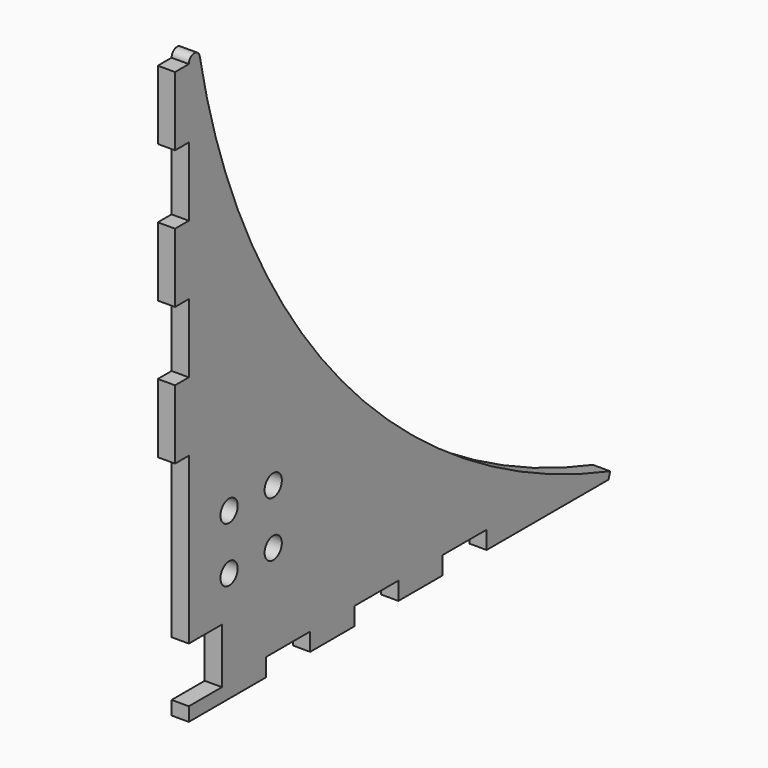
from build123d import *

# Parameters (mm, degrees)
F0_W     = 3.175
F0_H     = 12.7
F0_R     = 1.984375
F1_DEPTH = 3.175


with BuildPart() as f1:
    # F0 (on Right) → F1 (new body)
    with BuildSketch(Plane.YZ):
        with Locations((-52.966131, 31.75)):
            Rectangle(F0_W, F0_H)
        with Locations((-52.966131, 6.35)):
            Rectangle(F0_W, F0_H)
        with Locations((-52.966131, -19.05)):
            Rectangle(F0_W, F0_H)
        with BuildLine():
            ThreePointArc((-48.86175, 38.34122), (-50.229793, 39.364207), (-51.378631, 38.1))
            Line((-51.378631, 38.1), (-51.378631, 25.4))
            Line((-51.378631, 25.4), (-51.378631, 12.7))
            Line((-51.378631, 12.7), (-51.378631, 0))
            Line((-51.378631, 0), (-51.378631, -12.7))
            Line((-51.378631, -12.7), (-51.378631, -25.4))
            Line((-51.378631, -25.4), (-51.378631, -55.88))
            Line((-51.378631, -55.88), (-43.758631, -55.88))
            Line((-43.758631, -55.88), (-43.758631, -66.04))
            Line((-43.758631, -66.04), (-51.378631, -66.04))
            Line((-51.378631, -66.04), (-51.378631, -68.58))
            Line((-51.378631, -68.58), (-33.598631, -68.58))
            Line((-33.598631, -68.58), (-33.598631, -65.278))
            Line((-33.598631, -65.278), (-23.438631, -65.278))
            Line((-23.438631, -65.278), (-23.438631, -68.58))
            Line((-23.438631, -68.58), (-13.278631, -68.58))
            Line((-13.278631, -68.58), (-13.278631, -65.278))
            Line((-13.278631, -65.278), (-3.118631, -65.278))
            Line((-3.118631, -65.278), (-3.118631, -68.58))
            Line((-3.118631, -68.58), (7.041369, -68.58))
            Line((7.041369, -68.58), (7.041369, -65.278))
            Line((7.041369, -65.278), (17.201369, -65.278))
            Line((17.201369, -65.278), (17.201369, -68.58))
            Line((17.201369, -68.58), (45.269527, -68.58))
            Line((45.269527, -68.58), (45.648292, -67.367797))
            ThreePointArc((45.648292, -67.367797), (-16.189845, -27.551447), (-48.86175, 38.34122))
        make_face()
        with Locations((-42.107631, -48.26)):
            Circle(F0_R, mode=Mode.SUBTRACT)
        with Locations((-31.947631, -48.26)):
            Circle(F0_R, mode=Mode.SUBTRACT)
        with Locations((-42.107631, -38.1)):
            Circle(F0_R, mode=Mode.SUBTRACT)
        with Locations((-31.947631, -38.1)):
            Circle(F0_R, mode=Mode.SUBTRACT)
    extrude(amount=F1_DEPTH)


solid = f1.part
